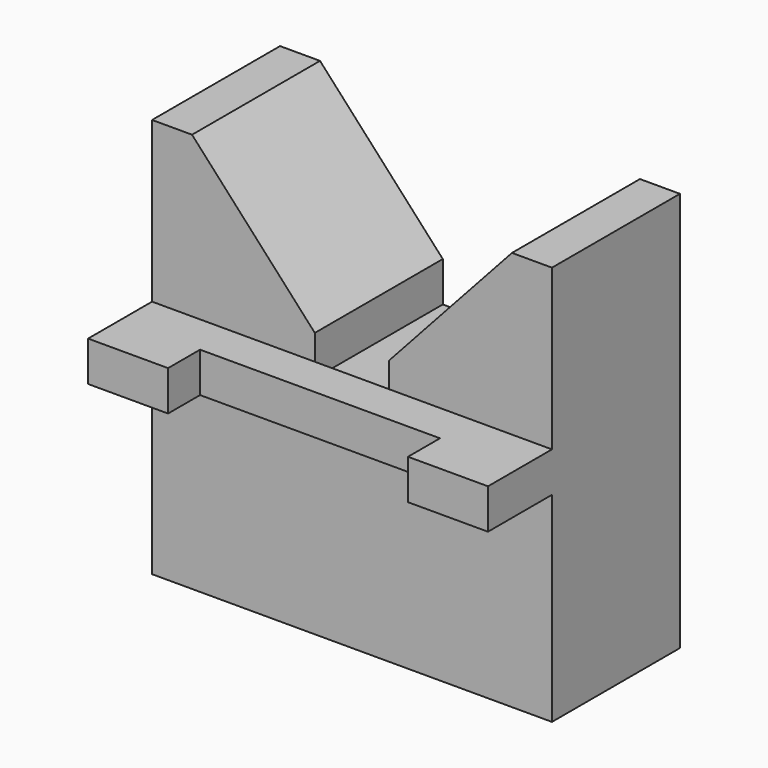
from build123d import *

# Parameters (mm, degrees)
F0_W     = 50
F0_H     = 30
F1_DEPTH = 50
F3_DEPTH = 20
F4_DEPTH = 50.001
F6_DEPTH = 25
F8_DEPTH = 20


with BuildPart() as f1:
    # F0 (on Top) → F1 (new body)
    with BuildSketch(Plane.XY):
        Rectangle(F0_W, F0_H)
    extrude(amount=F1_DEPTH)

    # F2 (on face) → F3 (cut)
    with BuildSketch(Plane.XY.offset(50)):
        Polygon((-25, -15), (-15, -15), (-15, -10), (15, -10), (15, -15), (25, -15), (25, -5), (-25, -5), align=None)
    extrude(amount=-F3_DEPTH, mode=Mode.SUBTRACT)

    # F4 (cut, through all): a face of the model
    f4_faces = [f1.faces().sort_by_distance(p)[0] for p in [
        (0, -12.5, 50),
    ]]
    extrude(f4_faces, amount=-F4_DEPTH, mode=Mode.SUBTRACT)

    # F5 (on face) → F6 (cut)
    with BuildSketch(Plane(origin=(0, 0, 0), x_dir=(1, 0, 0), z_dir=(0, 0, -1))):
        Polygon((-25, 15), (-25, 5), (25, 5), (25, 15), (15, 15), (15, 10), (-15, 10), (-15, 15), align=None)
    extrude(amount=-F6_DEPTH, mode=Mode.SUBTRACT)

    # F7 (on face) → F8 (cut)
    with BuildSketch(Plane(origin=(0, 15, 0), x_dir=(-1, 0, 0), z_dir=(0, 1, 0))):
        Polygon((-4.6503130347, 33.1786386669), (-4.6503130347, 28.1786386669), (4.6503130347, 28.1786386669), (4.6503130347, 33.1786386669), (20, 50), (-20, 50), align=None)
    extrude(amount=-F8_DEPTH, mode=Mode.SUBTRACT)


solid = f1.part
